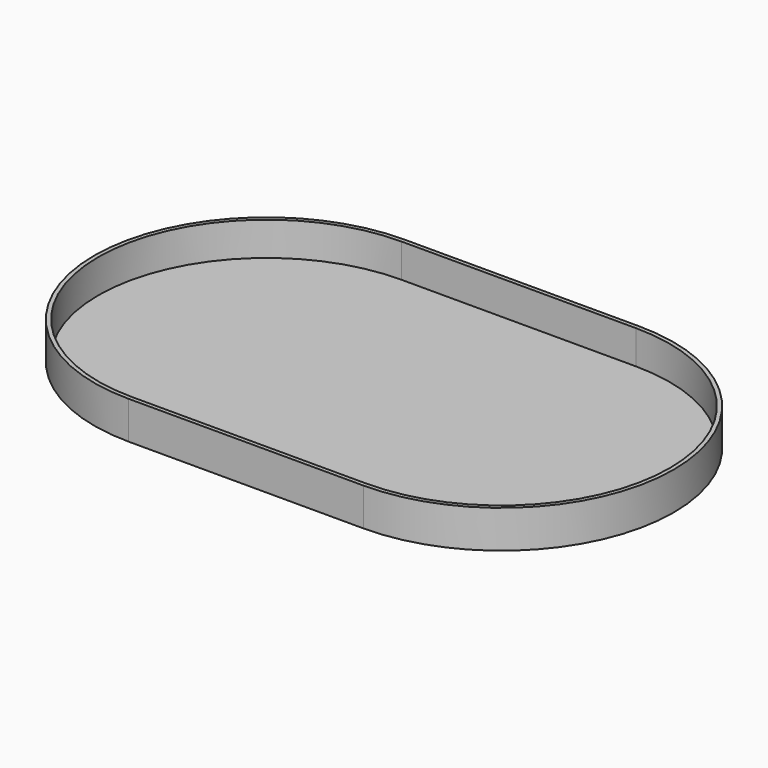
from build123d import *

# Parameters (mm, degrees)
F1_DEPTH = 6.35
F2_T     = 0.762


with BuildPart() as f1:
    # F0 (on Top) → F1 (new body)
    with BuildSketch(Plane.XY):
        with BuildLine():
            Line((-44.2468, -31.75), (0, -31.75))
            ThreePointArc((0, -31.75), (31.75, 0), (0, 31.75))
            Line((0, 31.75), (-44.2468, 31.75))
            ThreePointArc((-44.2468, 31.75), (-75.9968, 0), (-44.2468, -31.75))
        make_face()
    extrude(amount=F1_DEPTH)

    # F2
    f2_openings = [f1.faces().sort_by_distance(p)[0] for p in [
        (-22.1234, 0, 6.35),
    ]]
    offset(amount=F2_T, openings=f2_openings, kind=Kind.INTERSECTION)


solid = f1.part
